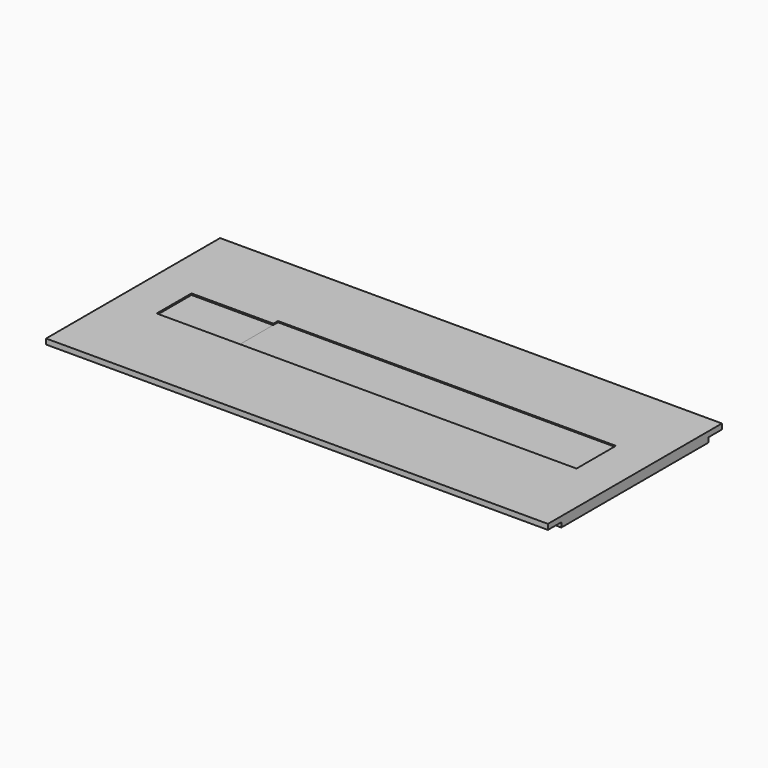
from build123d import *

# Parameters (mm, degrees)
F0_W     = 150
F0_H     = 65
F1_DEPTH = 3
F3_W     = 5
F3_H     = 1.4
F4_DEPTH = 150.001
F2_W     = 101
F2_H     = 13
F2_H_2   = 1.7
F5_DEPTH = 0.35
F2_W_2   = 24.5
F6_DEPTH = 0.43


with BuildPart() as f1:
    # F0 (on Top) → F1 (new body)
    with BuildSketch(Plane.XY):
        Rectangle(F0_W, F0_H)
    extrude(amount=F1_DEPTH)

    # F3 (on face) → F4 (cut, through all)
    with BuildSketch(Plane.YZ.offset(75)):
        with Locations((-30, 0.7)):
            Rectangle(F3_W, F3_H)
        with Locations((30, 0.7)):
            Rectangle(F3_W, F3_H)
    extrude(amount=-F4_DEPTH, mode=Mode.SUBTRACT)

    # F2 (on face) → F5 (cut)
    with BuildSketch(Plane.XY.offset(3)):
        with Locations((12.25, 0)):
            Rectangle(F2_W, F2_H)
        with Locations((12.25, 7.35)):
            Rectangle(F2_W, F2_H_2)
    extrude(amount=-F5_DEPTH, mode=Mode.SUBTRACT)

    # F2 (on face) → F6 (cut)
    with BuildSketch(Plane.XY.offset(3)):
        with Locations((-50.5, 0)):
            Rectangle(F2_W_2, F2_H)
    extrude(amount=-F6_DEPTH, mode=Mode.SUBTRACT)


solid = f1.part
